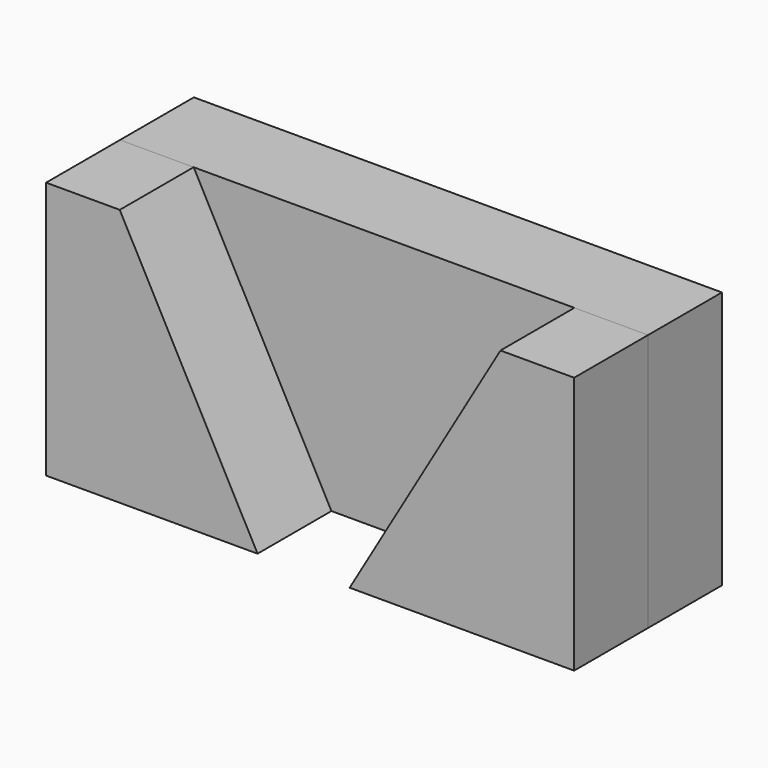
from build123d import *

# Parameters (mm, degrees)
F1_DEPTH = 23.876
F2_DEPTH = 23.876


with BuildPart() as f1:
    # F0 (on Front) → F1 (new body)
    with BuildSketch(Plane.XZ):
        Polygon((-13.589485, -33.3375), (-49.2125, 33.3375), (-68.2625, 33.3375), (-68.2625, -33.3375), align=None)
        Polygon((68.2625, -33.133913), (68.2625, 33.3375), (49.2125, 33.3375), (10.223015, -33.3375), (68.2625, -33.3375), align=None)
    extrude(amount=F1_DEPTH)


with BuildPart() as f2:
    # F0 (on Front) → F2 (new body)
    with BuildSketch(Plane.XZ):
        Polygon((68.2625, -33.133913), (68.2625, 33.3375), (49.2125, 33.3375), (10.223015, -33.3375), (68.2625, -33.3375), align=None)
        Polygon((10.223015, -33.3375), (49.2125, 33.3375), (-49.2125, 33.3375), (-13.589485, -33.3375), align=None)
        Polygon((-13.589485, -33.3375), (-49.2125, 33.3375), (-68.2625, 33.3375), (-68.2625, -33.3375), align=None)
    extrude(amount=-F2_DEPTH)


solid = Compound([f1.part, f2.part])
